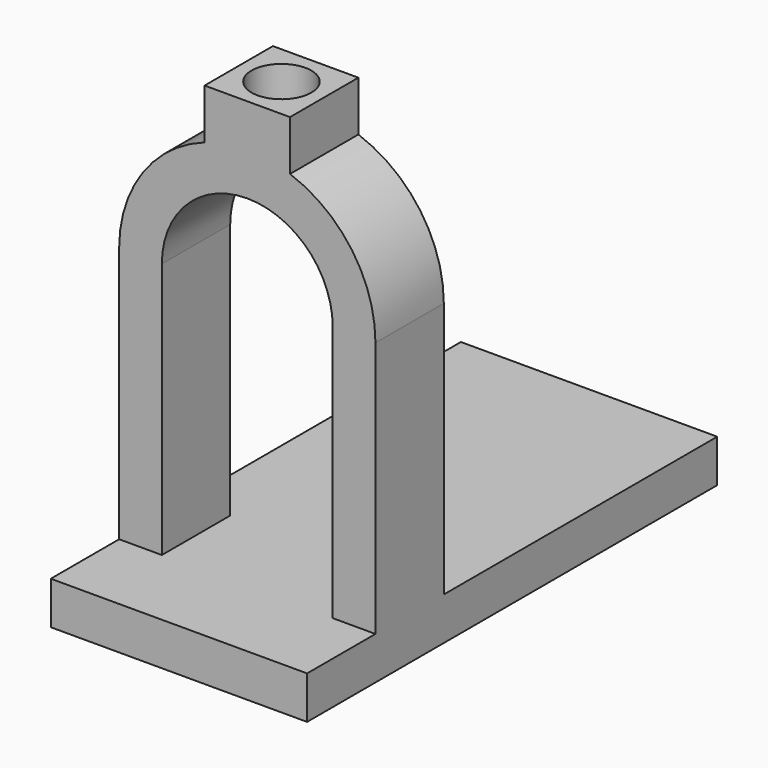
from build123d import *

# Parameters (mm, degrees)
F1_DEPTH = 25.4
F2_R     = 8.89
F3_DEPTH = 97.9802
F5_DEPTH = 98.298
F6_W     = 76.2
F6_H     = 127
F7_DEPTH = 12.7
F9_DEPTH = 25.4


with BuildPart() as f1:
    # F0 (on Front) → F1 (new body)
    with BuildSketch(Plane.XZ):
        with BuildLine():
            ThreePointArc((-25.4, 72.847709), (0, 98.247709), (25.4, 72.847709))
            Line((25.4, 72.847709), (25.4, -3.352291))
            Line((25.4, -3.352291), (38.1, -3.352291))
            Line((38.1, -3.352291), (38.1, 72.847709))
            ThreePointArc((38.1, 72.847709), (31.10852, 94.844754), (12.7, 108.768733))
            Line((12.7, 108.768733), (12.7, 123.647709))
            Line((12.7, 123.647709), (0, 123.647709))
            Line((0, 123.647709), (-12.7, 123.647709))
            Line((-12.7, 123.647709), (-12.7, 108.768733))
            ThreePointArc((-12.7, 108.768733), (-31.10852, 94.844754), (-38.1, 72.847709))
            Line((-38.1, 72.847709), (-38.1, -3.352291))
            Line((-38.1, -3.352291), (-25.4, -3.352291))
            Line((-25.4, -3.352291), (-25.4, 72.847709))
        make_face()
    extrude(amount=F1_DEPTH)

    # F2 (on face) → F3 (cut)
    with BuildSketch(Plane.XY.offset(123.647709)):
        with Locations((0, -12.7)):
            Circle(F2_R)
    extrude(amount=-F3_DEPTH, mode=Mode.SUBTRACT)

    # F4 (on Top) → F5 (cut)
    with BuildSketch(Plane.XY):
        with BuildLine():
            Line((8.89, -21.59), (8.89, -12.7))
            ThreePointArc((8.89, -12.7), (6.286179, -18.986179), (0, -21.59))
            Line((0, -21.59), (8.89, -21.59))
        make_face()
        with BuildLine():
            ThreePointArc((0, -3.81), (6.286179, -6.413821), (8.89, -12.7))
            Line((8.89, -12.7), (8.89, -3.81))
            Line((8.89, -3.81), (0, -3.81))
        make_face()
        with BuildLine():
            ThreePointArc((-8.89, -12.7), (-6.286179, -6.413821), (0, -3.81))
            Line((0, -3.81), (-8.89, -3.81))
            Line((-8.89, -3.81), (-8.89, -12.7))
        make_face()
        with BuildLine():
            Line((-8.89, -21.59), (0, -21.59))
            ThreePointArc((0, -21.59), (-6.286179, -18.986179), (-8.89, -12.7))
            Line((-8.89, -12.7), (-8.89, -21.59))
        make_face()
    extrude(amount=F5_DEPTH, mode=Mode.SUBTRACT)

    # F6 (on face) → F7 (join)
    with BuildSketch(Plane(origin=(0, 0, -3.352291), x_dir=(1, 0, 0), z_dir=(0, 0, -1))):
        with Locations((0, -38.1)):
            Rectangle(F6_W, F6_H)
    extrude(amount=F7_DEPTH)

    # F8 (on face) → F9 (join)
    with BuildSketch(Plane.XZ.offset(25.4)):
        Polygon((0, -16.052291), (38.1, -16.052291), (38.1, -3.352291), (0, -3.352291), (-38.1, -3.352291), (-38.1, -16.052291), align=None)
    extrude(amount=F9_DEPTH)


solid = f1.part
